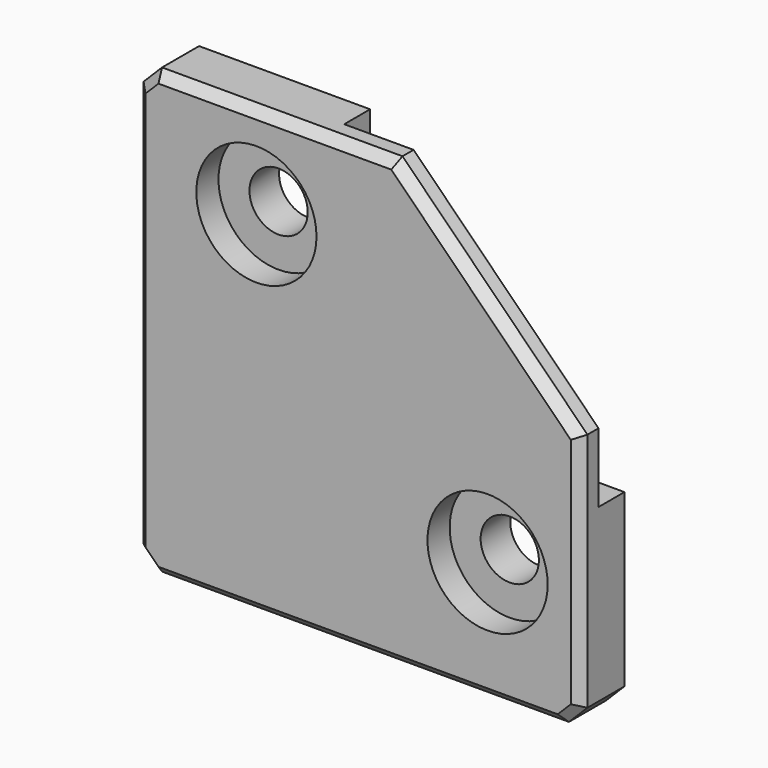
from build123d import *

# Parameters (mm, degrees)
BOX003_W          = 28
BOX003_H          = 16
BOX003_DEPTH      = 28
CYLINDER002_R     = 6.5
CYLINDER002_DEPTH = 10
CYLINDER003_R     = 6.5
CYLINDER003_DEPTH = 10
CYLINDER001_R     = 3.15
CYLINDER001_DEPTH = 10
CYLINDER_R        = 3.15
CYLINDER_DEPTH    = 10
BOX001_W          = 7.8
BOX001_H          = 2
BOX001_DEPTH      = 20
CHAMFER003_SIZE   = 1
BOX002_W          = 20
BOX002_H          = 2
BOX002_DEPTH      = 7.8
CHAMFER004_SIZE   = 1
BOX_W             = 48
BOX_H             = 6
BOX_DEPTH         = 48
CHAMFER_SIZE      = 20
CHAMFER001_SIZE   = 2
CHAMFER002_SIZE   = 1


with BuildPart() as cube003:
    # Box003 → Box003 (new body)
    with BuildSketch(Plane(origin=(-7.5, -3.5, -7.5), x_dir=(1, 0, 0), z_dir=(0, 0, 1))):
        with Locations((14, 8)):
            Rectangle(BOX003_W, BOX003_H)
    extrude(amount=BOX003_DEPTH)


with BuildPart() as cylinder002:
    # Cylinder002 → Cylinder002 (new body)
    with BuildSketch(Plane(origin=(10, -16, -15), x_dir=(1, 0, 0), z_dir=(0, 1, 0))):
        Circle(CYLINDER002_R)
    extrude(amount=CYLINDER002_DEPTH)


with BuildPart() as fusion003:
    # Cylinder003 → Cylinder003 (new body)
    with BuildSketch(Plane(origin=(-15, -16, 10), x_dir=(1, 0, 0), z_dir=(0, 1, 0))):
        Circle(CYLINDER003_R)
    extrude(amount=CYLINDER003_DEPTH)

    # Fusion003: union Cylinder002
    add(cylinder002.part)


with BuildPart() as fusion003_1:
    # Fusion003 placement: moved
    add(fusion003.part.moved(Location((0, 3, 0))))


with BuildPart() as cylinder001:
    # Cylinder001 → Cylinder001 (new body)
    with BuildSketch(Plane(origin=(10, -7, -15), x_dir=(1, 0, 0), z_dir=(0, 1, 0))):
        Circle(CYLINDER001_R)
    extrude(amount=CYLINDER001_DEPTH)


with BuildPart() as fusion002:
    # Cylinder → Cylinder (new body)
    with BuildSketch(Plane(origin=(-15, -7, 10), x_dir=(1, 0, 0), z_dir=(0, 1, 0))):
        Circle(CYLINDER_R)
    extrude(amount=CYLINDER_DEPTH)

    # Fusion002: union Cylinder001
    add(cylinder001.part)


with BuildPart() as chamfer003:
    # Box001 → Box001 (new body)
    with BuildSketch(Plane(origin=(-18.9, -1, 0), x_dir=(1, 0, 0), z_dir=(0, 0, 1))):
        with Locations((3.9, 1)):
            Rectangle(BOX001_W, BOX001_H)
    extrude(amount=BOX001_DEPTH)

    # Chamfer003
    chamfer003_edges = [chamfer003.edges().sort_by_distance(p)[0] for p in [
        (-15, 1, 0),
        (-15, 1, 20),
    ]]
    chamfer(chamfer003_edges, length=CHAMFER003_SIZE)


with BuildPart() as fusion:
    # Box002 → Box002 (new body)
    with BuildSketch(Plane(origin=(0, -1, -18.9), x_dir=(1, 0, 0), z_dir=(0, 0, 1))):
        with Locations((10, 1)):
            Rectangle(BOX002_W, BOX002_H)
    extrude(amount=BOX002_DEPTH)

    # Chamfer004
    chamfer004_edges = [fusion.edges().sort_by_distance(p)[0] for p in [
        (0, 1, -15),
        (20, 1, -15),
    ]]
    chamfer(chamfer004_edges, length=CHAMFER004_SIZE)

    # Fusion: union Chamfer003
    add(chamfer003.part)


with BuildPart() as side_corner_panel_clip:
    # Box → Box (new body)
    with BuildSketch(Plane(origin=(-28, -6, -28), x_dir=(1, 0, 0), z_dir=(0, 0, 1))):
        with Locations((24, 3)):
            Rectangle(BOX_W, BOX_H)
    extrude(amount=BOX_DEPTH)

    # Chamfer
    chamfer_edges = [side_corner_panel_clip.edges().sort_by_distance(p)[0] for p in [
        (20, -3, 20),
    ]]
    chamfer(chamfer_edges, length=CHAMFER_SIZE)

    # Chamfer001
    chamfer001_edges = [side_corner_panel_clip.edges().sort_by_distance(p)[0] for p in [
        (20, -3, -28),
        (-28, -3, -28),
        (-28, -3, 20),
    ]]
    chamfer(chamfer001_edges, length=CHAMFER001_SIZE)

    # Chamfer002
    chamfer002_edges = [side_corner_panel_clip.edges().sort_by_distance(p)[0] for p in [
        (20, -6, -13),
        (19, -6, -27),
        (10, -6, 10),
        (-4, -6, -28),
        (-13, -6, 20),
        (-27, -6, -27),
        (-27, -6, 19),
        (-28, -6, -4),
    ]]
    chamfer(chamfer002_edges, length=CHAMFER002_SIZE)

    # Fusion001: union Fusion
    add(fusion.part)

    # Cut: cut Fusion002
    add(fusion002.part, mode=Mode.SUBTRACT)

    # Cut001: cut Fusion003
    add(fusion003_1.part, mode=Mode.SUBTRACT)

    # Cut002008006: cut Cube003
    add(cube003.part, mode=Mode.SUBTRACT)


solid = side_corner_panel_clip.part
